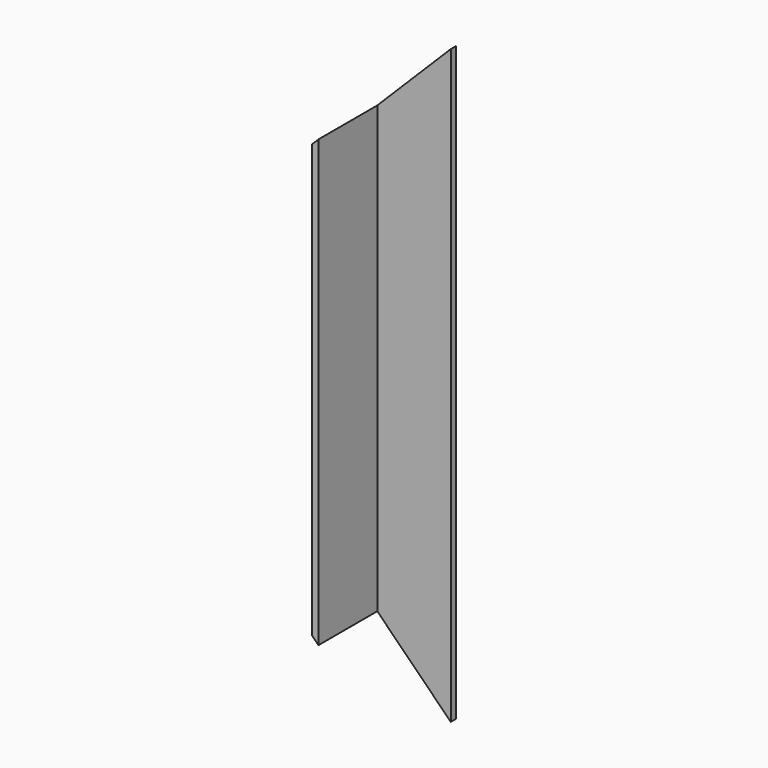
from build123d import *

# Parameters (mm, degrees)
F1_DEPTH = 556
F3_DEPTH = 75.001
F5_DEPTH = 75.001
F7_W     = 75
F7_H     = 75
F8_DEPTH = 556.001


with BuildPart() as f1:
    # F0 (on Top) → F1 (new body)
    with BuildSketch(Plane.XY):
        Polygon((0, 75), (0, 0), (75, 0), (75, 6), (6, 6), (6, 75), align=None)
    extrude(amount=F1_DEPTH)

    # F2 (on Front) → F3 (cut, through all)
    with BuildSketch(Plane.XZ):
        Polygon((0, 75), (0, 0), (75, 0), align=None)
    extrude(amount=-F3_DEPTH, mode=Mode.SUBTRACT)

    # F4 (on Front) → F5 (cut, through all)
    with BuildSketch(Plane.XZ):
        Polygon((0, 481), (75, 556), (0, 556), align=None)
    extrude(amount=-F5_DEPTH, mode=Mode.SUBTRACT)

    # F6: F1 across plane


with BuildPart() as f1_1:
    add(f1.part)
    add(f1.part.mirror(Plane.XZ))

    # F7 (on Top) → F8 (cut, through all)
    with BuildSketch(Plane.XY):
        with Locations((37.5, 37.5)):
            Rectangle(F7_W, F7_H)
    extrude(amount=F8_DEPTH, mode=Mode.SUBTRACT)


solid = f1_1.part
